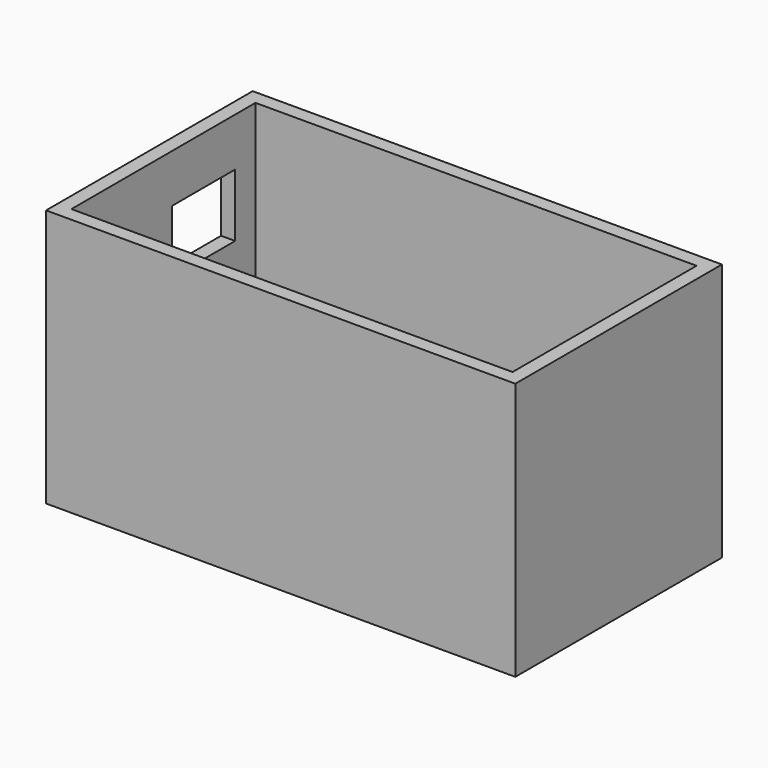
from build123d import *

# Parameters (mm, degrees)
F0_W     = 100
F0_H     = 55.031712
F0_W_2   = 94
F0_H_2   = 49.031712
F1_DEPTH = 55
F2_W     = 16.877164
F2_H     = 13.408617
F3_DEPTH = 3


with BuildPart() as f1:
    # F0 (on Top) → F1 (new body)
    with BuildSketch(Plane.XY):
        with Locations((-47, 27.515856)):
            Rectangle(F0_W, F0_H)
        with Locations((-47, 27.515856)):
            Rectangle(F0_W_2, F0_H_2, mode=Mode.SUBTRACT)
    extrude(amount=F1_DEPTH)

    # F2 (on face) → F3 (cut, through all)
    with BuildSketch(Plane(origin=(-97, 0, 0), x_dir=(0, -1, 0), z_dir=(-1, 0, 0))):
        with Locations((-38.166361, 37.994999)):
            Rectangle(F2_W, F2_H)
    extrude(amount=-F3_DEPTH, mode=Mode.SUBTRACT)


solid = f1.part
